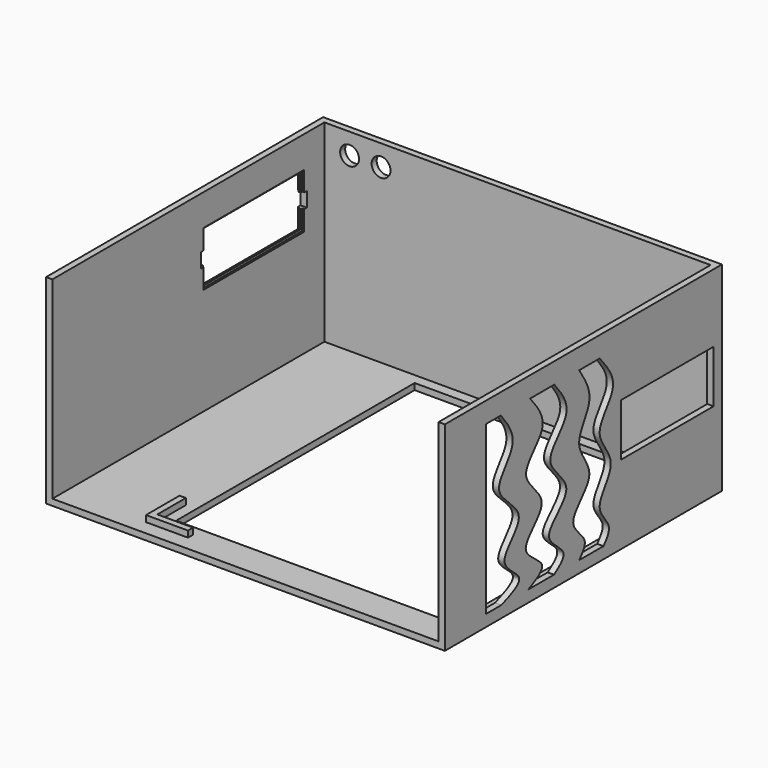
from build123d import *

# Parameters (mm, degrees)
F0_W      = 190
F0_H      = 170
F1_DEPTH  = 95
F2_T      = -3
F4_DEPTH  = 3
F6_W      = 5
F6_H      = 95
F7_DEPTH  = 190
F5_W      = 55
F5_H      = 25
F8_DEPTH  = 25
F10_D     = 9
F11_W     = 58
F11_H     = 24
F12_DEPTH = 3
F11_W_2   = 60
F11_H_2   = 26
F13_DEPTH = 1
F14_W     = 60
F14_H     = 26
F14_W_2   = 58
F14_H_2   = 24
F15_DEPTH = 1
F16_W     = 1.5
F16_H     = 7
F17_DEPTH = 5
F18_W     = 132
F18_H     = 142
F19_DEPTH = 3.0010001


with BuildPart() as f1:
    # F0 (on Top) → F1 (new body)
    with BuildSketch(Plane.XY):
        Rectangle(F0_W, F0_H)
    extrude(amount=F1_DEPTH)

    # F2
    f2_openings = [f1.faces().sort_by_distance(p)[0] for p in [
        (0, 0, 95),
        (0, -85, 47.5),
    ]]
    offset(amount=F2_T, openings=f2_openings)

    # F3 (on face) → F4 (join)
    with BuildSketch(Plane.XY.offset(3)):
        Polygon((-50, -70), (-50, -53), (-53, -53), (-53, -70), (-53, -73), (-33, -73), (-33, -70), align=None)
    extrude(amount=F4_DEPTH)

    # F6 (on face) → F7 (cut, through all)
    with BuildSketch(Plane(origin=(-95, 0, 0), x_dir=(0, -1, 0), z_dir=(-1, 0, 0))):
        with Locations((82.5, 47.5)):
            Rectangle(F6_W, F6_H)
    extrude(amount=-F7_DEPTH, mode=Mode.SUBTRACT)

    # F5 (on face) → F8 (cut)
    with BuildSketch(Plane.YZ.offset(95)):
        with Locations((52.5, 50.0298032988)):
            Rectangle(F5_W, F5_H)
        with BuildLine():
            Line((12.1880219877, 85.1853340864), (0, 85.1853340864))
            add(Edge.make_bspline(
                [(0, 85.1853340864), (3.4683703493, 79.9320722655), (10.3787574494, 69.4654643014), (-5.8613615569, 54.1199453405), (13.3354074363, 37.942039573), (-10.520773296, 23.3249726107), (6.5941975372, 12.9640260833), (2.0157784719, 7.8023688627), (0, 5.5298032988)],
                knots=[0, 0, 0, 0, 0.1795778061, 0.3577911324, 0.5379859969, 0.723658348, 0.8783327727, 1, 1, 1, 1], degree=3))
            Line((0, 5.5298032988), (14.4454455003, 5.5298032988))
            add(Edge.make_bspline(
                [(12.1880219877, 85.1853340864), (16.6570241623, 79.9301953272), (25.5639121616, 69.4565077968), (5.5276174237, 54.2092611349), (25.3936332956, 38.3872345393), (6.6726485381, 23.2063428557), (20.5845830546, 12.8466667856), (16.3414341068, 7.7895164399), (14.4454455003, 5.5298032988)],
                knots=[0, 0, 0, 0, 0.1838670528, 0.3664538933, 0.5483132041, 0.7272541825, 0.878127549, 1, 1, 1, 1], degree=3))
        make_face()
        with BuildLine():
            Line((-14.8169659078, 85.1853340864), (-21.9930894764, 85.1853340864))
            Line((-21.9930894764, 85.1853340864), (-29.2504522949, 85.1853340864))
            add(Edge.make_bspline(
                [(-29.2504522949, 85.1853340864), (-24.8384865563, 79.8921735526), (-15.9038627259, 69.173051727), (-40.290170594, 54.1405106741), (-12.9552014597, 38.3805207636), (-40.754447726, 22.809182739), (-16.0118385539, 12.5380988982), (-25.7277401915, 7.7520645444), (-30.2390474826, 5.5298032988)],
                knots=[0, 0, 0, 0, 0.17312942, 0.3506025053, 0.5292331934, 0.7058806712, 0.8634339126, 1, 1, 1, 1], degree=3))
            Line((-30.2390474826, 5.5298032988), (-15.0146847591, 5.5298032988))
            add(Edge.make_bspline(
                [(-14.8169659078, 85.1853340864), (-10.5045610477, 79.8933999789), (-1.7737665501, 69.1794733677), (-25.8674031797, 54.1042117444), (1.9399036465, 38.2708889849), (-26.5457427698, 23.0934925825), (-4.6071538912, 12.8184011925), (-11.791190934, 7.7872792171), (-15.0146847591, 5.5298032988)],
                knots=[0, 0, 0, 0, 0.1752712073, 0.3548500065, 0.5366135916, 0.7180053721, 0.8734683666, 1, 1, 1, 1], degree=3))
        make_face()
        with BuildLine():
            add(Edge.make_bspline(
                [(-46.6497242451, 85.1853340864), (-42.5328592136, 79.943473704), (-34.2787791865, 69.433842041), (-56.3385931196, 53.4947296771), (-26.2849468222, 38.914269553), (-52.7808982117, 22.8766308272), (-29.2098665484, 12.0246245819), (-40.6460354761, 7.6668417127), (-46.2542846799, 5.5298032988)],
                knots=[0, 0, 0, 0, 0.1712002722, 0.3432467998, 0.5269308119, 0.6999475506, 0.8528555392, 1, 1, 1, 1], degree=3))
            Line((-46.6497242451, 85.1853340864), (-55.6239560246, 85.1853340864))
            Line((-55.6239560246, 85.1853340864), (-55.6239560246, 5.5298032988))
            Line((-55.6239560246, 5.5298032988), (-46.2542846799, 5.5298032988))
        make_face()
    extrude(amount=-F8_DEPTH, mode=Mode.SUBTRACT)

    # F10 (through all)
    with Locations(Plane(origin=(0, 85, 0), x_dir=(-1, 0, 0), z_dir=(0, 1, 0))):
        with Locations((65, 85), (80, 85)):
            Hole(F10_D / 2)

    # F11 (on face) → F12 (cut, through all)
    with BuildSketch(Plane(origin=(-95, 0, 0), x_dir=(0, -1, 0), z_dir=(-1, 0, 0))):
        with Locations((-40, 67)):
            Rectangle(F11_W, F11_H)
    extrude(amount=-F12_DEPTH, mode=Mode.SUBTRACT)

    # F11 (on face) → F13 (cut)
    with BuildSketch(Plane(origin=(-95, 0, 0), x_dir=(0, -1, 0), z_dir=(-1, 0, 0))):
        with Locations((-40, 67)):
            Rectangle(F11_W_2, F11_H_2)
        with Locations((-40, 67)):
            Rectangle(F11_W, F11_H, mode=Mode.SUBTRACT)
    extrude(amount=-F13_DEPTH, mode=Mode.SUBTRACT)

    # F14 (on face) → F15 (cut)
    with BuildSketch(Plane.YZ.offset(-92)):
        with Locations((40, 67)):
            Rectangle(F14_W, F14_H)
        with Locations((40, 67)):
            Rectangle(F14_W_2, F14_H_2, mode=Mode.SUBTRACT)
    extrude(amount=-F15_DEPTH, mode=Mode.SUBTRACT)

    # F16 (on face) → F17 (cut)
    with BuildSketch(Plane(origin=(-95, 0, 0), x_dir=(0, -1, 0), z_dir=(-1, 0, 0))):
        with Locations((-70.75, 67)):
            Rectangle(F16_W, F16_H)
        with Locations((-69.25, 67)):
            Rectangle(F16_W, F16_H)
        with Locations((-10.75, 67)):
            Rectangle(F16_W, F16_H)
        with Locations((-9.25, 67)):
            Rectangle(F16_W, F16_H)
    extrude(amount=-F17_DEPTH, mode=Mode.SUBTRACT)

    # F18 (on face) → F19 (cut, through all)
    with BuildSketch(Plane.XY.offset(3)):
        with Locations((21, 6)):
            Rectangle(F18_W, F18_H)
    extrude(amount=-F19_DEPTH, mode=Mode.SUBTRACT)


solid = f1.part
